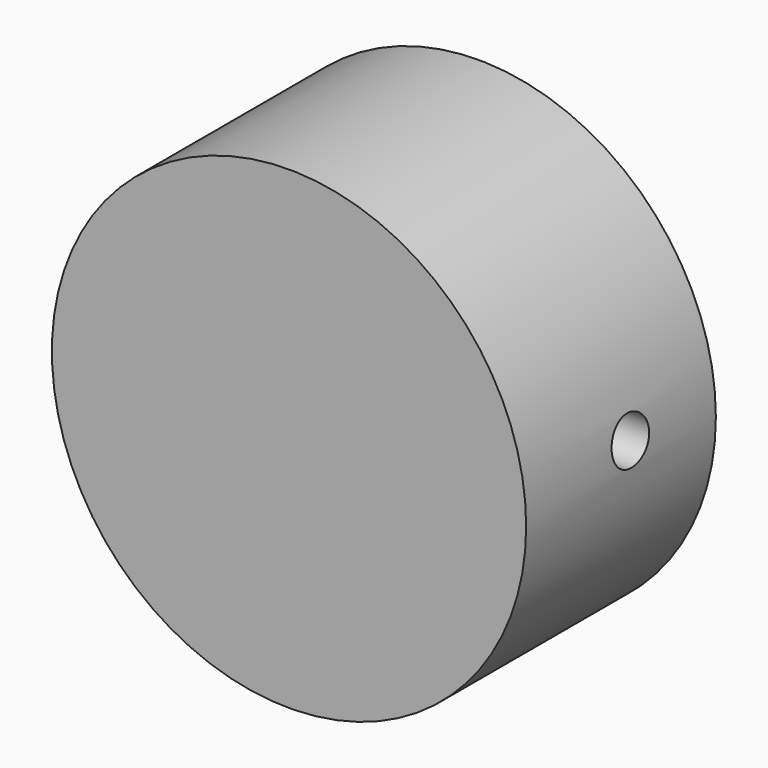
from build123d import *

# Parameters (mm, degrees)
F0_R           = 25.4
F1_DEPTH       = 25.4
F3_D           = 5
F3_CSINK_D     = 11.2
F3_CSINK_ANGLE = 45


with BuildPart() as f1:
    # F0 (on Front) → F1 (new body)
    with BuildSketch(Plane.XZ):
        with Locations((-44.6709766984, 54.9208261073)):
            Circle(F0_R)
    extrude(amount=F1_DEPTH)

    # F3 (through all)
    with Locations(Plane.YZ):
        with Locations((-11.3125964999, 57.2093129158)):
            CounterSinkHole(F3_D / 2, F3_CSINK_D / 2, counter_sink_angle=F3_CSINK_ANGLE)


solid = f1.part
